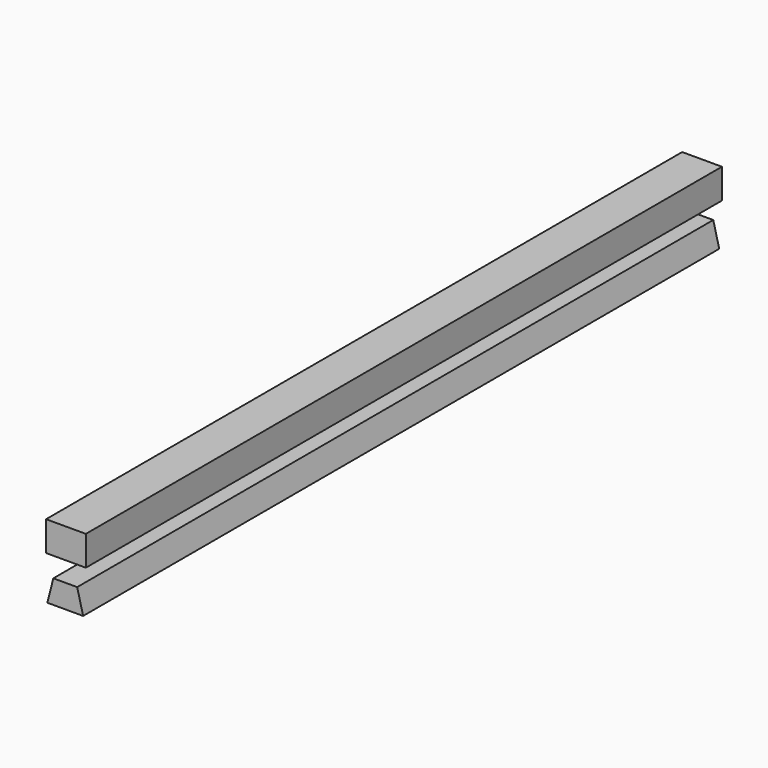
from build123d import *

# Parameters (mm, degrees)
F2_DEPTH = 50.8
F1_W     = 2.54
F1_H     = 1.905
F3_DEPTH = 50.8


with BuildPart() as f2:
    # F0 (on Front) → F2 (new body)
    with BuildSketch(Plane.XZ):
        Polygon((-1.143, -2.057626), (0, -2.057626), (1.143, -2.057626), (0.762, -0.559026), (0, -0.559026), (-0.762, -0.559026), align=None)
    extrude(amount=F2_DEPTH)


with BuildPart() as f3:
    # F1 (on Front) → F3 (new body)
    with BuildSketch(Plane.XZ):
        with Locations((0.045043, 1.663474)):
            Rectangle(F1_W, F1_H)
        with Locations((0.045043, 1.663474)):
            Rectangle(F1_W, F1_H)
    extrude(amount=F3_DEPTH)


solid = Compound([f2.part, f3.part])
